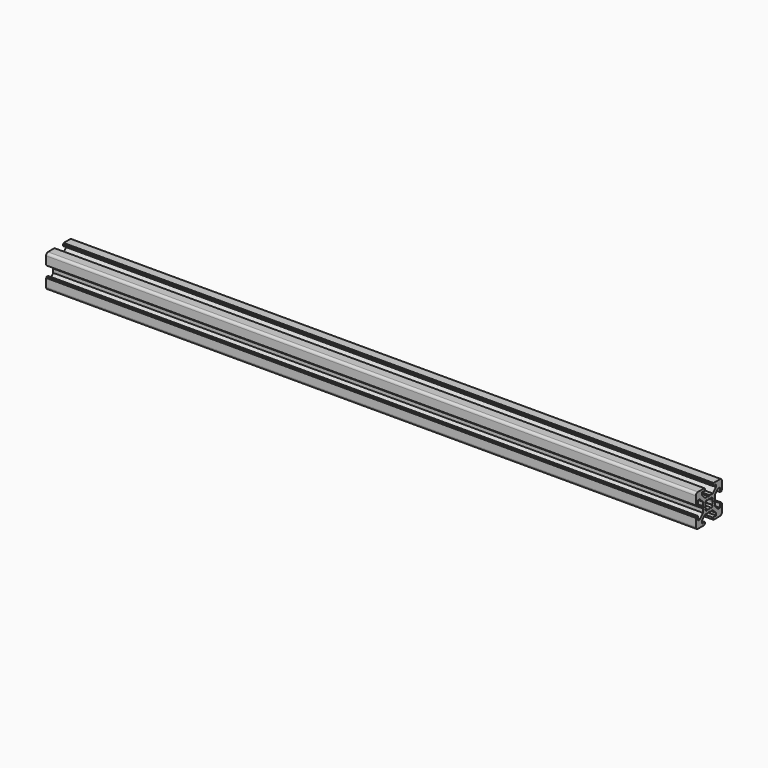
from build123d import *

# Parameters (mm, degrees)
PAD_DEPTH = 400


with BuildPart() as part:
    # Sketch → Pad (new body)
    with BuildSketch(Plane.YZ):
        with BuildLine():
            Line((0, 4.1), (0.65, 4.5))
            Line((0.65, 4.5), (3, 4.5))
            Line((3, 4.5), (5.5, 7))
            Line((5.5, 7), (5.5, 8.5))
            Line((5.5, 8.5), (3, 8.5))
            Line((3, 8.5), (3, 9.5))
            Line((3, 9.5), (3.5, 9.5))
            Line((3.5, 9.5), (3.5, 10))
            Line((3.5, 10), (8.5, 10))
            ThreePointArc((10, 8.5), (9.56066, 9.56066), (8.5, 10))
            Line((10, 8.5), (10, 3.5))
            Line((10, 3.5), (9.5, 3.5))
            Line((9.5, 3.5), (9.5, 3))
            Line((9.5, 3), (8.5, 3))
            Line((8.5, 3), (8.5, 5.5))
            Line((8.5, 5.5), (7, 5.5))
            Line((7, 5.5), (4.5, 3))
            Line((4.5, 3), (4.5, 0.65))
            Line((4.5, 0.65), (4.1, 0))
            Line((4.5, -0.65), (4.1, 0))
            Line((4.5, -3), (4.5, -0.65))
            Line((7, -5.5), (4.5, -3))
            Line((8.5, -5.5), (7, -5.5))
            Line((8.5, -3), (8.5, -5.5))
            Line((9.5, -3), (8.5, -3))
            Line((9.5, -3.5), (9.5, -3))
            Line((10, -3.5), (9.5, -3.5))
            Line((10, -8.5), (10, -3.5))
            ThreePointArc((8.5, -10), (9.56066, -9.56066), (10, -8.5))
            Line((3.5, -10), (8.5, -10))
            Line((3.5, -9.5), (3.5, -10))
            Line((3, -9.5), (3.5, -9.5))
            Line((3, -8.5), (3, -9.5))
            Line((5.5, -8.5), (3, -8.5))
            Line((5.5, -7), (5.5, -8.5))
            Line((3, -4.5), (5.5, -7))
            Line((0.65, -4.5), (3, -4.5))
            Line((0, -4.1), (0.65, -4.5))
            Line((0, -4.1), (-0.65, -4.5))
            Line((-0.65, -4.5), (-3, -4.5))
            Line((-3, -4.5), (-5.5, -7))
            Line((-5.5, -7), (-5.5, -8.5))
            Line((-5.5, -8.5), (-3, -8.5))
            Line((-3, -8.5), (-3, -9.5))
            Line((-3, -9.5), (-3.5, -9.5))
            Line((-3.5, -9.5), (-3.5, -10))
            Line((-3.5, -10), (-8.5, -10))
            ThreePointArc((-10, -8.5), (-9.56066, -9.56066), (-8.5, -10))
            Line((-10, -8.5), (-10, -3.5))
            Line((-10, -3.5), (-9.5, -3.5))
            Line((-9.5, -3.5), (-9.5, -3))
            Line((-9.5, -3), (-8.5, -3))
            Line((-8.5, -3), (-8.5, -5.5))
            Line((-8.5, -5.5), (-7, -5.5))
            Line((-7, -5.5), (-4.5, -3))
            Line((-4.5, -3), (-4.5, -0.65))
            Line((-4.5, -0.65), (-4.1, 0))
            Line((-4.5, 0.65), (-4.1, 0))
            Line((-4.5, 3), (-4.5, 0.65))
            Line((-7, 5.5), (-4.5, 3))
            Line((-8.5, 5.5), (-7, 5.5))
            Line((-8.5, 3), (-8.5, 5.5))
            Line((-9.5, 3), (-8.5, 3))
            Line((-9.5, 3.5), (-9.5, 3))
            Line((-10, 3.5), (-9.5, 3.5))
            Line((-10, 8.5), (-10, 3.5))
            ThreePointArc((-8.5, 10), (-9.56066, 9.56066), (-10, 8.5))
            Line((-3.5, 10), (-8.5, 10))
            Line((-3.5, 9.5), (-3.5, 10))
            Line((-3, 9.5), (-3.5, 9.5))
            Line((-3, 8.5), (-3, 9.5))
            Line((-5.5, 8.5), (-3, 8.5))
            Line((-5.5, 7), (-5.5, 8.5))
            Line((-3, 4.5), (-5.5, 7))
            Line((-0.65, 4.5), (-3, 4.5))
            Line((0, 4.1), (-0.65, 4.5))
        make_face()
        with BuildLine():
            Line((1.340499, 2.401159), (1.923239, 2.983899))
            Line((1.923239, 2.983899), (2.983899, 1.923239))
            Line((2.983899, 1.923239), (2.401159, 1.340499))
            ThreePointArc((2.75, 0), (2.661361, 0.692573), (2.401159, 1.340499))
            ThreePointArc((2.401164, -1.34049), (2.661362, -0.692568), (2.75, 0))
            Line((2.983904, -1.92323), (2.401164, -1.34049))
            Line((1.923247, -2.983894), (2.983904, -1.92323))
            Line((1.340507, -2.401154), (1.923247, -2.983894))
            ThreePointArc((0, -2.75), (0.692577, -2.66136), (1.340507, -2.401154))
            ThreePointArc((-1.340507, -2.401154), (-0.692577, -2.66136), (0, -2.75))
            Line((-1.340507, -2.401154), (-1.923247, -2.983894))
            Line((-1.923247, -2.983894), (-2.983904, -1.92323))
            Line((-2.983904, -1.92323), (-2.401164, -1.34049))
            ThreePointArc((-2.75, 0), (-2.661362, -0.692568), (-2.401164, -1.34049))
            ThreePointArc((-2.401159, 1.340499), (-2.661361, 0.692572), (-2.75, 0))
            Line((-2.983899, 1.923239), (-2.401159, 1.340499))
            Line((-1.923239, 2.983899), (-2.983899, 1.923239))
            Line((-1.340499, 2.401159), (-1.923239, 2.983899))
            ThreePointArc((0, 2.75), (-0.692573, 2.661361), (-1.340499, 2.401159))
            ThreePointArc((1.340499, 2.401159), (0.692573, 2.661361), (0, 2.75))
        make_face(mode=Mode.SUBTRACT)
    extrude(amount=PAD_DEPTH)


solid = part.part
